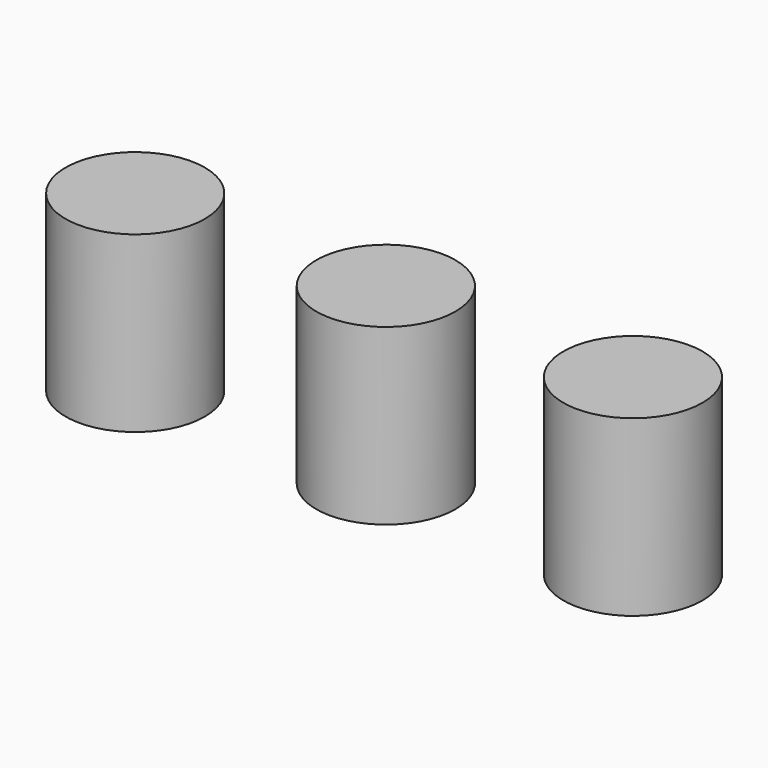
from build123d import *

# Parameters (mm, degrees)
F0_W     = 140
F0_H     = 60
F1_DEPTH = 25
F2_R     = 10
F3_DEPTH = 25


with BuildPart() as f1:
    # F0 (on Top) → F1 (new body)
    with BuildSketch(Plane.XY):
        Rectangle(F0_W, F0_H)
    extrude(amount=F1_DEPTH)

    # F2 (on face) → F3 (cut)
    with BuildSketch(Plane.XY.offset(25)):
        Polygon((-70, 0), (-70, -30), (70, -30), (70, 30), (-70, 30), align=None)
        with Locations((-36.003638, 0)):
            Circle(F2_R, mode=Mode.SUBTRACT)
        Circle(F2_R, mode=Mode.SUBTRACT)
        with Locations((35.494749, 0)):
            Circle(F2_R, mode=Mode.SUBTRACT)
    extrude(amount=-F3_DEPTH, mode=Mode.SUBTRACT)


solid = f1.part
